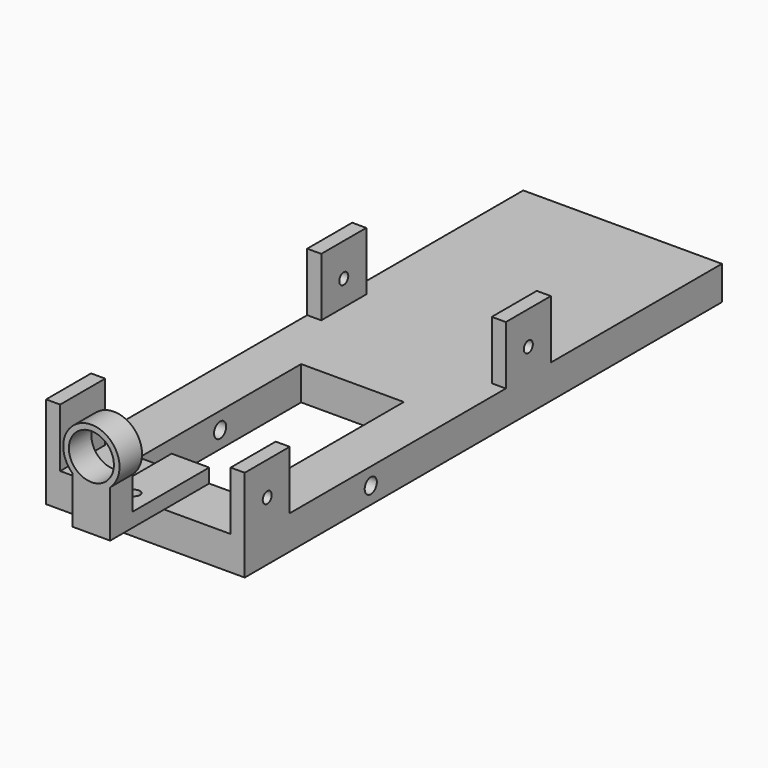
from build123d import *

# Parameters (mm, degrees)
F0_W          = 8.4836
F0_H          = 3.175
F1_DEPTH      = 12.7
F3_DEPTH      = 8.89
F3_DEPTH_BACK = 3.81
F4_R          = 5.08
F5_DEPTH      = 6.35
F6_R          = 1.27
F7_DEPTH      = 25.4
F8_R          = 1.27
F9_DEPTH      = 124.4092
F10_W         = 10.82675
F10_H         = 7.62
F11_DEPTH     = 45.72
F12_W         = 44.831
F12_H         = 7.62
F13_DEPTH     = 76.2
F14_R         = 1.7145
F15_DEPTH     = 51.6382
F16_W         = 12.7
F16_H         = 14.986
F17_DEPTH     = 3.175
F18_W         = 12.7
F18_H         = 14.986
F19_DEPTH     = 3.175
F20_W         = 12.7
F20_H         = 1.778
F20_R         = 1.27
F21_DEPTH     = 51.054
F23_DEPTH     = 50.8
F24_W         = 12.7
F24_H         = 3.175
F25_DEPTH     = 22.86


with BuildPart() as f1:
    # F0 (on Front) → F1 (new body)
    with BuildSketch(Plane.XZ):
        with Locations((4.2418, 1.5875)):
            Rectangle(F0_W, F0_H)
    extrude(amount=F1_DEPTH)

    # F2 (on face) → F3 (join, two sides)
    with BuildSketch(Plane(origin=(0, 0, 0), x_dir=(-1, 0, 0), z_dir=(0, 1, 0))) as f3_sk:
        Polygon((-8.4836, 3.175), (-8.4836, 0), (-13.7668, 0), (-23.4823, 0), (-23.4823, 13.208), (-26.6573, 13.208), (-26.6573, -7.62), (-12.1793, -7.62), (-4.2418, -7.62), (3.6957, -7.62), (18.1737, -7.62), (18.1737, 13.208), (14.9987, 13.208), (14.9987, 0), (5.2832, 0), (0, 0), (0, 3.175), align=None)
    extrude(amount=F3_DEPTH)
    extrude(f3_sk.sketch, amount=-F3_DEPTH_BACK)

    # F4 (on face) → F5 (join)
    with BuildSketch(Plane.XZ.offset(12.7)):
        with BuildLine():
            Line((8.4836, 0), (8.4836, 10.59766))
            ThreePointArc((8.4836, 10.59766), (4.2418, 21.673084), (0, 10.59766))
            Line((0, 10.59766), (0, 0))
            Line((0, 0), (8.4836, 0))
        make_face()
        with Locations((4.2418, 15.323084)):
            Circle(F4_R, mode=Mode.SUBTRACT)
    extrude(amount=F5_DEPTH)

    # F6 (on face) → F7 (cut)
    with BuildSketch(Plane.XY.offset(3.175)):
        with Locations((4.2418, -6.95039)):
            Circle(F6_R)
    extrude(amount=-F7_DEPTH, mode=Mode.SUBTRACT)

    # F8 (on face) → F9 (cut)
    with BuildSketch(Plane.YZ.offset(26.6573)):
        with Locations((2.54, 5.715)):
            Circle(F8_R)
    extrude(amount=-F9_DEPTH, mode=Mode.SUBTRACT)

    # F10 (on face) → F11 (join)
    with BuildSketch(Plane(origin=(0, 8.89, 0), x_dir=(-1, 0, 0), z_dir=(0, 1, 0))):
        with Locations((-21.243925, -3.81)):
            Rectangle(F10_W, F10_H)
        with Locations((12.760325, -3.81)):
            Rectangle(F10_W, F10_H)
    extrude(amount=F11_DEPTH)

    # F12 (on face) → F13 (join)
    with BuildSketch(Plane(origin=(0, 54.61, 0), x_dir=(-1, 0, 0), z_dir=(0, 1, 0))):
        with Locations((-4.2418, -3.81)):
            Rectangle(F12_W, F12_H)
    extrude(amount=F13_DEPTH)

    # F14 (on face) → F15 (cut)
    with BuildSketch(Plane.YZ.offset(26.6573)):
        with Locations((31.75, -3.81)):
            Circle(F14_R)
    extrude(amount=-F15_DEPTH, mode=Mode.SUBTRACT)

    # F16 (on face) → F17 (join)
    with BuildSketch(Plane.YZ.offset(26.6573)):
        with Locations((76.2, 7.493)):
            Rectangle(F16_W, F16_H)
    extrude(amount=-F17_DEPTH)

    # F18 (on face) → F19 (join)
    with BuildSketch(Plane(origin=(-18.1737, 0, 0), x_dir=(0, -1, 0), z_dir=(-1, 0, 0))):
        with Locations((-76.2, 7.493)):
            Rectangle(F18_W, F18_H)
    extrude(amount=-F19_DEPTH)

    # F20 (on face) → F21 (cut)
    with BuildSketch(Plane.YZ.offset(26.6573)):
        with Locations((76.2, 14.097)):
            Rectangle(F20_W, F20_H)
        with Locations((76.2, 5.715)):
            Circle(F20_R)
    extrude(amount=-F21_DEPTH, mode=Mode.SUBTRACT)

    # F22 (on face) → F23 (cut)
    with BuildSketch(Plane(origin=(0, 130.81, 0), x_dir=(-1, 0, 0), z_dir=(0, 1, 0))):
        Polygon((-10.5918, -7.62), (-4.2418, -7.62), (2.1082, -7.62), (2.1082, -4.445), (-10.5918, -4.445), align=None)
    extrude(amount=-F23_DEPTH, mode=Mode.SUBTRACT)

    # F24 (on face) → F25 (join)
    with BuildSketch(Plane(origin=(0, 130.81, 0), x_dir=(-1, 0, 0), z_dir=(0, 1, 0))):
        with Locations((-4.2418, -6.0325)):
            Rectangle(F24_W, F24_H)
    extrude(amount=-F25_DEPTH)


solid = f1.part
